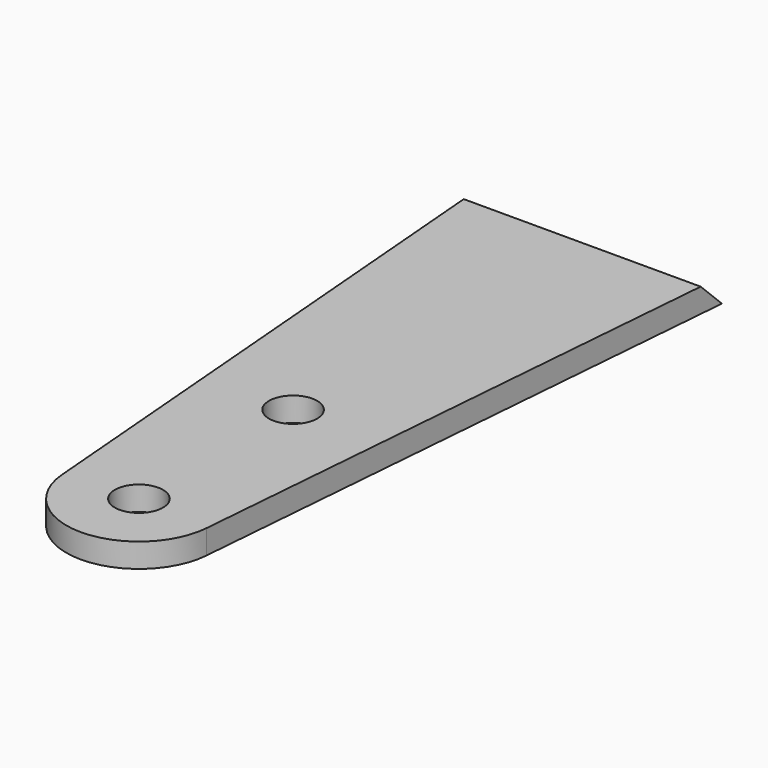
from build123d import *

# Parameters (mm, degrees)
F1_DEPTH = 5
F3_DEPTH = 50.001
F5_D     = 10
F5_DEPTH = 100


with BuildPart() as f1:
    # F0 (on Top) → F1 (new body)
    with BuildSketch(Plane.XY):
        with BuildLine():
            Line((50, 0), (0, 0))
            Line((0, 0), (10, -121.237244))
            ThreePointArc((10, -121.237244), (25, -135.050939), (40, -121.237244))
            Line((40, -121.237244), (50, 0))
        make_face()
    extrude(amount=F1_DEPTH)

    # F2 (on Right) → F3 (cut, through all)
    with BuildSketch(Plane.YZ):
        Polygon((-5, 5), (0, 0), (0, 5), align=None)
    extrude(amount=F3_DEPTH, mode=Mode.SUBTRACT)

    # F5
    with Locations(Plane.XY.offset(5)):
        with Locations((25, -120), (25, -80)):
            Hole(F5_D / 2, depth=F5_DEPTH)


solid = f1.part
